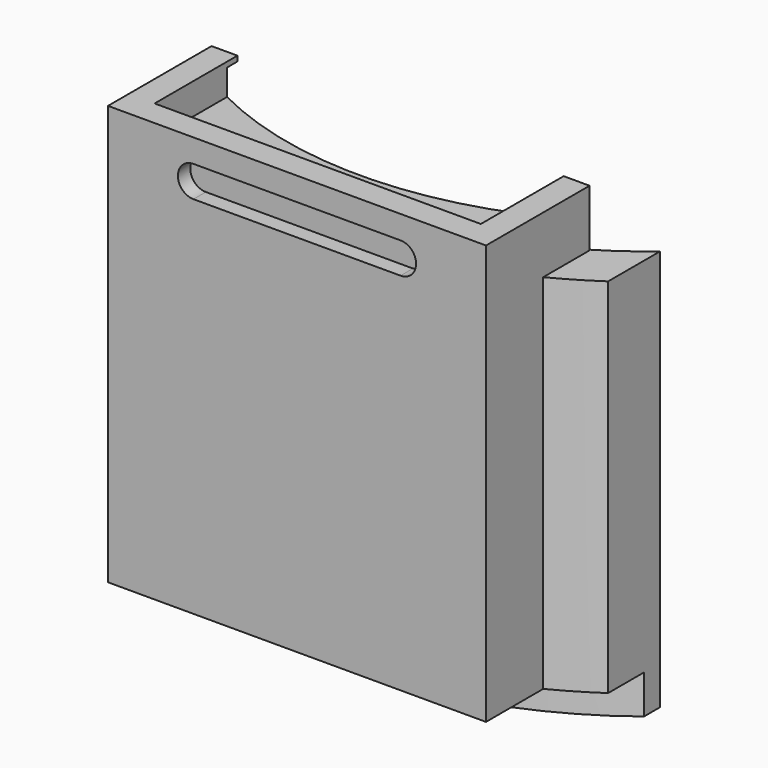
from build123d import *

# Parameters (mm, degrees)
BOX010_W                    = 12.6
BOX010_H                    = 10
BOX010_DEPTH                = 2
BOX009_W                    = 3
BOX009_H                    = 6
BOX009_DEPTH                = 20
BOX008_W                    = 3
BOX008_H                    = 6
BOX008_DEPTH                = 20
BOX006_W                    = 12.6
BOX006_H                    = 10
BOX006_DEPTH                = 1
CYLINDER010_R               = 4.5
CYLINDER010_DEPTH           = 1.5
SKETCH023_R                 = 2.1
PAD012_DEPTH                = 0.8
CYLINDER009_R               = 14
CYLINDER009_DEPTH           = 19
CYLINDER012_W               = 16
CYLINDER012_H               = 14
CYLINDER012_ANGLE           = 80
CYLINDER012_PLACEMENT_ANGLE = 230
BOX007_W                    = 14.6
BOX007_H                    = 5
BOX007_DEPTH                = 16.2
POCKET007_DEPTH             = 0.6
PAD013_DEPTH                = 1.5


with BuildPart() as cubo010:
    # Box010 → Box010 (new body)
    with BuildSketch(Plane(origin=(-6.3, -16, 18), x_dir=(1, 0, 0), z_dir=(0, 0, 1))):
        with Locations((6.3, 5)):
            Rectangle(BOX010_W, BOX010_H)
    extrude(amount=BOX010_DEPTH)


with BuildPart() as cubo009:
    # Box009 → Box009 (new body)
    with BuildSketch(Plane(origin=(-12, -15, 0), x_dir=(1, 0, 0), z_dir=(0, 0, 1))):
        with Locations((1.5, 3)):
            Rectangle(BOX009_W, BOX009_H)
    extrude(amount=BOX009_DEPTH)


with BuildPart() as obj1:
    # Box008 → Box008 (new body)
    with BuildSketch(Plane(origin=(9, -15, 0), x_dir=(1, 0, 0), z_dir=(0, 0, 1))):
        with Locations((1.5, 3)):
            Rectangle(BOX008_W, BOX008_H)
    extrude(amount=BOX008_DEPTH)

    # Fusion007007: union Cubo009
    add(cubo009.part)


with BuildPart() as cubo006:
    # Box006 → Box006 (new body)
    with BuildSketch(Plane(origin=(-6.3, -16, 18), x_dir=(1, 0, 0), z_dir=(0, 0, 1))):
        with Locations((6.3, 5)):
            Rectangle(BOX006_W, BOX006_H)
    extrude(amount=BOX006_DEPTH)


with BuildPart() as cilindro003:
    # Cylinder010 → Cylinder010 (new body)
    with BuildSketch(Plane(origin=(0, 8, 19), x_dir=(1, 0, 0), z_dir=(0, 0, 1))):
        Circle(CYLINDER010_R)
    extrude(amount=CYLINDER010_DEPTH)


with BuildPart() as pad012:
    # Sketch023 → Pad012 (new body)
    with BuildSketch(Plane.XY.offset(18.2)):
        with BuildLine():
            ThreePointArc((-17.5, 3.5), (-21, 0), (-17.5, -3.5))
            Line((-17.5, -3.5), (17.5, -3.5))
            ThreePointArc((17.5, -3.5), (21, 0), (17.5, 3.5))
            Line((-17.5, 3.5), (17.5, 3.5))
        make_face()
        with Locations((-17.5, 0)):
            Circle(SKETCH023_R, mode=Mode.SUBTRACT)
        with Locations((17.5, 0)):
            Circle(SKETCH023_R, mode=Mode.SUBTRACT)
    extrude(amount=PAD012_DEPTH)


with BuildPart() as body:
    # Cylinder009 → Cylinder009 (new body)
    with BuildSketch(Plane.XY):
        Circle(CYLINDER009_R)
    extrude(amount=CYLINDER009_DEPTH)

    # Fusion007004: union Pad012
    add(pad012.part)

    # Fusion002: union Cilindro003
    add(cilindro003.part)

    # Fusion007006: union Cubo006
    add(cubo006.part)


with BuildPart() as cut007:
    # Cylinder012 → Cylinder012 (revolve)
    with BuildSketch(Plane.XZ):
        with Locations((8, 7)):
            Rectangle(CYLINDER012_W, CYLINDER012_H)
    revolve(axis=Axis((0, 0, 0), (0, 0, 1)), revolution_arc=CYLINDER012_ANGLE)


with BuildPart() as cut007_1:
    # Cylinder012 placement: moved
    add(cut007.part.moved(Location((0, 0, 3))).rotate(Axis((0, 0, 3), (0, 0, 1)), CYLINDER012_PLACEMENT_ANGLE))

    # Cut006: cut Body
    add(body.part, mode=Mode.SUBTRACT)

    # Cut007: cut obj1
    add(obj1.part, mode=Mode.SUBTRACT)


with BuildPart() as plastic_base_final:
    # Box007 → Box007 (new body)
    with BuildSketch(Plane(origin=(-7.3, -17, 3), x_dir=(1, 0, 0), z_dir=(0, 0, 1))):
        with Locations((7.3, 2.5)):
            Rectangle(BOX007_W, BOX007_H)
    extrude(amount=BOX007_DEPTH)

    # Cut005: cut Body
    add(body.part, mode=Mode.SUBTRACT)

    # Fusion007008: union Cut007
    add(cut007_1.part)

    # Cut008: cut Cubo010
    add(cubo010.part, mode=Mode.SUBTRACT)

    # Sketch024 → Pocket007 (cut)
    with BuildSketch(Plane.XZ.offset(17)):
        with BuildLine():
            ThreePointArc((-4, 18.3), (-4.6, 17.7), (-4, 17.1))
            Line((-4, 17.1), (4, 17.1))
            ThreePointArc((4, 17.1), (4.6, 17.7), (4, 18.3))
            Line((-4, 18.3), (4, 18.3))
        make_face()
    extrude(amount=-POCKET007_DEPTH, mode=Mode.SUBTRACT)

    # Sketch002 → Pad013 (new body)
    with BuildSketch(Plane(origin=(0, 0, 3), x_dir=(1, 0, 0), z_dir=(0, 0, -1))):
        with BuildLine():
            ThreePointArc((9, 11.496086), (0, 14.6), (-9, 11.496086))
            Line((-9, 11.496086), (-9, 10.723805))
            ThreePointArc((9, 10.723805), (0, 14), (-9, 10.723805))
            Line((9, 11.496086), (9, 10.723805))
        make_face()
    extrude(amount=PAD013_DEPTH)


solid = plastic_base_final.part
